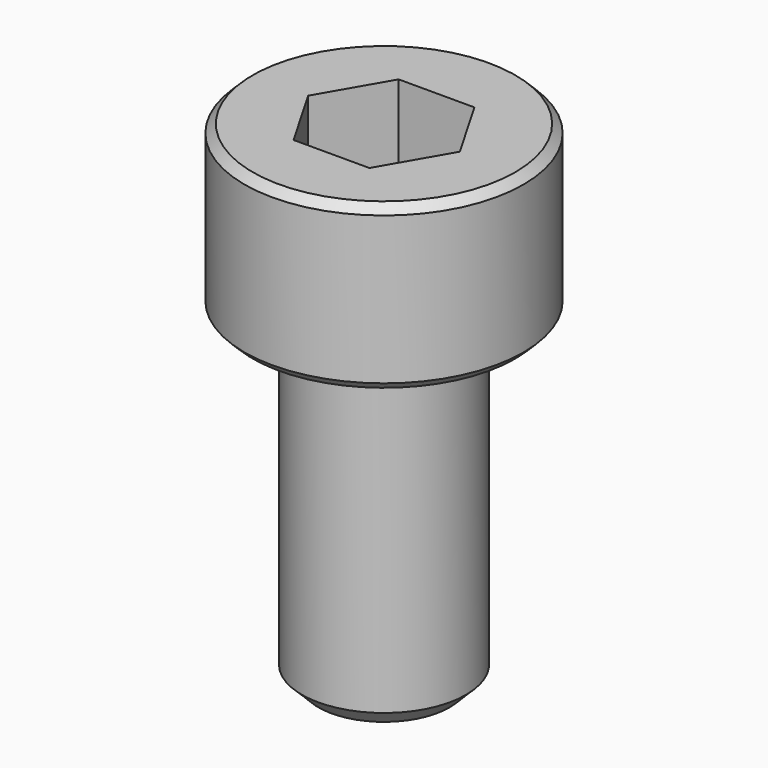
from build123d import *

# Parameters (mm, degrees)
F3_DEPTH = 2.5
F4_SIZE  = 0.5
F5_SIZE  = 0.25


with BuildPart() as f1:
    # F0 (on Front) → F1 (revolve)
    with BuildSketch(Plane.XZ):
        Polygon((4.25, 0), (0, 0), (0, -15), (2.5, -15), (2.5, -5), (4.25, -5), align=None)
    revolve(axis=Axis((0, 0, -7.5), (0, 0, -1)))

    # F2 (on face) → F3 (cut)
    with BuildSketch(Plane.XY):
        Polygon((1.154701, 2), (-1.154701, 2), (-2.309401, 0), (-1.154701, -2), (1.154701, -2), (2.309401, 0), align=None)
    extrude(amount=-F3_DEPTH, mode=Mode.SUBTRACT)

    # F4
    f4_edges = [f1.edges().sort_by_distance(p)[0] for p in [
        (-2.5, 0, -15),
    ]]
    chamfer(f4_edges, length=F4_SIZE)

    # F5
    f5_edges = [f1.edges().sort_by_distance(p)[0] for p in [
        (-4.25, 0, 0),
        (-4.25, 0, -5),
    ]]
    chamfer(f5_edges, length=F5_SIZE)


solid = f1.part
